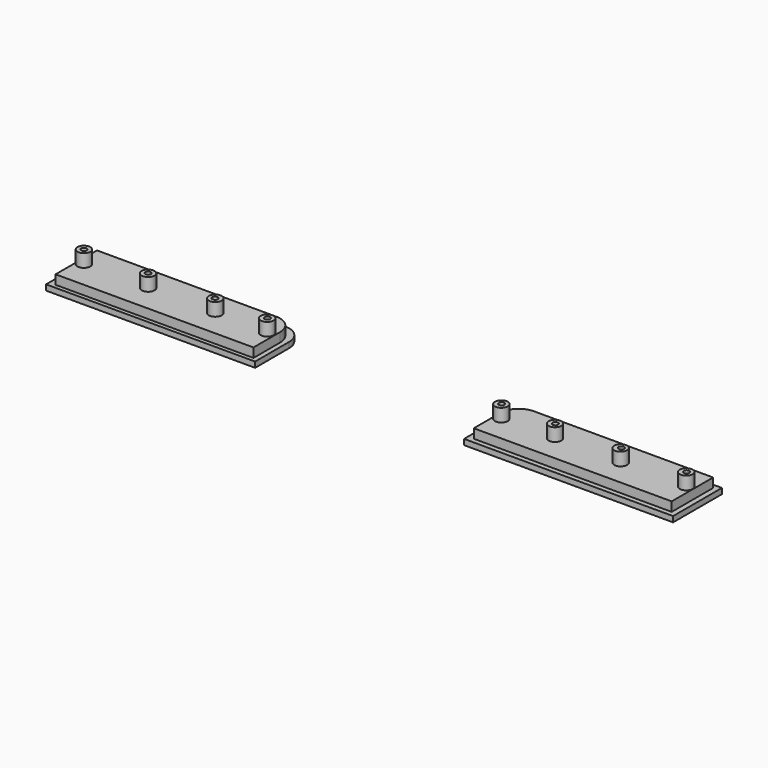
from build123d import *

# Parameters (mm, degrees)
F1_DEPTH    = 3
F6_DEPTH    = 5
F7_R        = 3.4630631045
F8_DEPTH    = 12
F10_D       = 3
F10_DEPTH   = 2
F10_TIP     = 0.9012909285
F10_2_D     = 3
F10_2_DEPTH = 2
F10_2_TIP   = 0.9012909285


with BuildPart() as f1:
    # F0 (on Top) → F1 (new body)
    with BuildSketch(Plane.XY):
        with BuildLine():
            Line((169.1123094261, 78.8974409995), (66.1123094261, 78.8974409995))
            ThreePointArc((66.1123094261, 78.8974409995), (59.0412416142, 75.9685088113), (56.1123094261, 68.8974409995))
            Line((56.1123094261, 68.8974409995), (56.1123094261, 45.8974409995))
            Line((56.1123094261, 45.8974409995), (169.1123094261, 45.8974409995))
            Line((169.1123094261, 45.8974409995), (169.1123094261, 78.8974409995))
        make_face()
    extrude(amount=F1_DEPTH)

    # F5 (on offset) → F6, piece 2 (join)
    with BuildSketch(Plane.XY.offset(3)):
        with BuildLine():
            Line((59.2519766918, 66.5360809534), (59.2519766918, 48.5360809534))
            Line((59.2519766918, 48.5360809534), (166.2519766918, 48.5360809534))
            Line((166.2519766918, 48.5360809534), (166.2519766918, 76.5360809534))
            Line((166.2519766918, 76.5360809534), (69.2519766918, 76.5360809534))
            ThreePointArc((69.2519766918, 76.5360809534), (62.1809088799, 73.6071487653), (59.2519766918, 66.5360809534))
        make_face()
    extrude(amount=F6_DEPTH)

    # F7 (on offset) → F8, piece 2 (join)
    with BuildSketch(Plane.XY.offset(3)):
        with Locations((62.912106514, 62.570437789)):
            Circle(F7_R)
        with Locations((91.7275436223, 62.8390833735)):
            Circle(F7_R)
        with Locations((127.319432795, 62.7231523395)):
            Circle(F7_R)
        with Locations((162.6352369785, 62.8875419497)):
            Circle(F7_R)
    extrude(amount=F8_DEPTH)

    # F10
    with Locations(Plane.XY.offset(15)):
        with Locations((-163.0018055439, 62.9096627235), (-128.266364336, 62.9068613052), (-91.8750613928, 62.6463070512), (-63.3005127311, 62.2988939285), (62.872223556, 62.8394931555), (91.9496789575, 62.8394931555), (127.5603622198, 62.9315078259), (162.7109497786, 63.0235224962)):
            Hole(F10_D / 2, depth=F10_DEPTH)
            with Locations((0, 0, -(F10_DEPTH + F10_TIP / 2))):  # 118° drill point
                Cone(0, F10_D / 2, F10_TIP, mode=Mode.SUBTRACT)


with BuildPart() as f1b:
    # F0 (on Top) → F1, piece 2 (new body)
    with BuildSketch(Plane.XY):
        with BuildLine():
            Line((-66.9198182523, 78.9953285099), (-169.9198182523, 78.9953285099))
            Line((-169.9198182523, 78.9953285099), (-169.9198182523, 45.9953285099))
            Line((-169.9198182523, 45.9953285099), (-56.9198182523, 45.9953285099))
            Line((-56.9198182523, 45.9953285099), (-56.9198182523, 68.9953285099))
            ThreePointArc((-56.9198182523, 68.9953285099), (-59.8487504405, 76.0663963218), (-66.9198182523, 78.9953285099))
        make_face()
    extrude(amount=F1_DEPTH)

    # F5 (on offset) → F6 (join)
    with BuildSketch(Plane.XY.offset(3)):
        with BuildLine():
            Line((-69.5121830702, 76.1399968266), (-166.5121830702, 76.1399968266))
            Line((-166.5121830702, 76.1399968266), (-166.5121830702, 48.1399968266))
            Line((-166.5121830702, 48.1399968266), (-59.5121830702, 48.1399968266))
            Line((-59.5121830702, 48.1399968266), (-59.5121830702, 66.1399968266))
            ThreePointArc((-59.5121830702, 66.1399968266), (-62.4411152583, 73.2110646385), (-69.5121830702, 76.1399968266))
        make_face()
    extrude(amount=F6_DEPTH)

    # F7 (on offset) → F8 (join)
    with BuildSketch(Plane.XY.offset(3)):
        with Locations((-163.0018055439, 62.9096627235)):
            Circle(F7_R)
        with Locations((-128.194347024, 62.7764984965)):
            Circle(F7_R)
        with Locations((-91.7909070849, 62.6605637372)):
            Circle(F7_R)
        with Locations((-63.324816525, 62.1415227652)):
            Circle(F7_R)
    extrude(amount=F8_DEPTH)

    # F10#2
    with Locations(Plane.XY.offset(15)):
        with Locations((-163.0018055439, 62.9096627235), (-128.266364336, 62.9068613052), (-91.8750613928, 62.6463070512), (-63.3005127311, 62.2988939285), (62.872223556, 62.8394931555), (91.9496789575, 62.8394931555), (127.5603622198, 62.9315078259), (162.7109497786, 63.0235224962)):
            Hole(F10_2_D / 2, depth=F10_2_DEPTH)
            with Locations((0, 0, -(F10_2_DEPTH + F10_2_TIP / 2))):  # 118° drill point
                Cone(0, F10_2_D / 2, F10_2_TIP, mode=Mode.SUBTRACT)


solid = Compound([f1.part, f1b.part])
